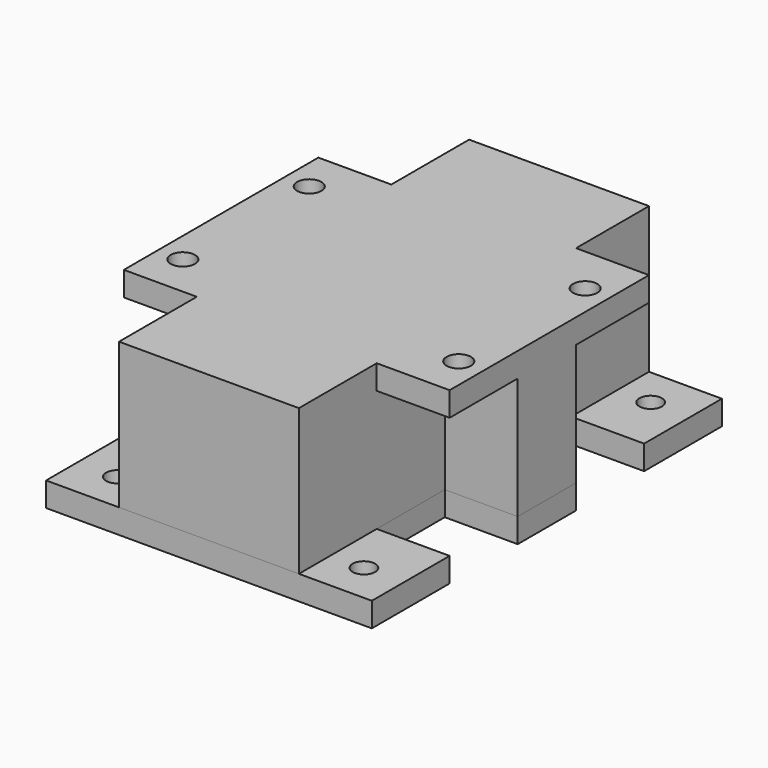
from build123d import *

# Parameters (mm, degrees)
F0_R     = 1.85
F1_DEPTH = 4
F3_DEPTH = 20
F4_R     = 2
F5_DEPTH = 4


with BuildPart() as f1:
    # F0 (on Top) → F1 (new body)
    with BuildSketch(Plane.XY):
        Polygon((26.8, 20), (26.8, 36), (-26.8, 36), (-26.8, 20), (-14.8, 20), (-14.8, 6), (-26.8, 6), (-26.8, -6), (-14.8, -6), (-14.8, -20), (-26.8, -20), (-26.8, -36), (26.8, -36), (26.8, -20), (14.8, -20), (14.8, -6), (26.8, -6), (26.8, 6), (14.8, 6), (14.8, 20), align=None)
        with Locations((-20.28586, -29.48586)):
            Circle(F0_R, mode=Mode.SUBTRACT)
        with Locations((20.28586, -29.48586)):
            Circle(F0_R, mode=Mode.SUBTRACT)
        with Locations((-20.28586, 29.48586)):
            Circle(F0_R, mode=Mode.SUBTRACT)
        with Locations((20.28586, 29.48586)):
            Circle(F0_R, mode=Mode.SUBTRACT)
    extrude(amount=F1_DEPTH)


with BuildPart() as f3:
    # F2 (on face) → F3 (new body)
    with BuildSketch(Plane.XY.offset(4)):
        Polygon((14.8, 20), (14.8, 36), (-14.8, 36), (-14.8, 20), (-14.8, 6), (-26.8, 6), (-26.8, -6), (-14.8, -6), (-14.8, -20), (-14.8, -36), (14.8, -36), (14.8, -20), (14.8, -6), (26.8, -6), (26.8, 6), (14.8, 6), align=None)
    extrude(amount=F3_DEPTH)

    # F4 (on face) → F5 (join)
    with BuildSketch(Plane.XY.offset(24)):
        Polygon((-14.8, -36), (14.8, -36), (14.8, -20), (26.8, -20), (26.8, 21), (14.8, 21), (14.8, 36), (-14.8, 36), (-14.8, 20), (-26.8, 20), (-26.8, -20), (-14.8, -20), align=None)
        with Locations((-22.7, -13)):
            Circle(F4_R, mode=Mode.SUBTRACT)
        with Locations((22.7, -13)):
            Circle(F4_R, mode=Mode.SUBTRACT)
        with Locations((-22.7, 13)):
            Circle(F4_R, mode=Mode.SUBTRACT)
        with Locations((22.7, 13)):
            Circle(F4_R, mode=Mode.SUBTRACT)
    extrude(amount=F5_DEPTH)


solid = Compound([f1.part, f3.part])
